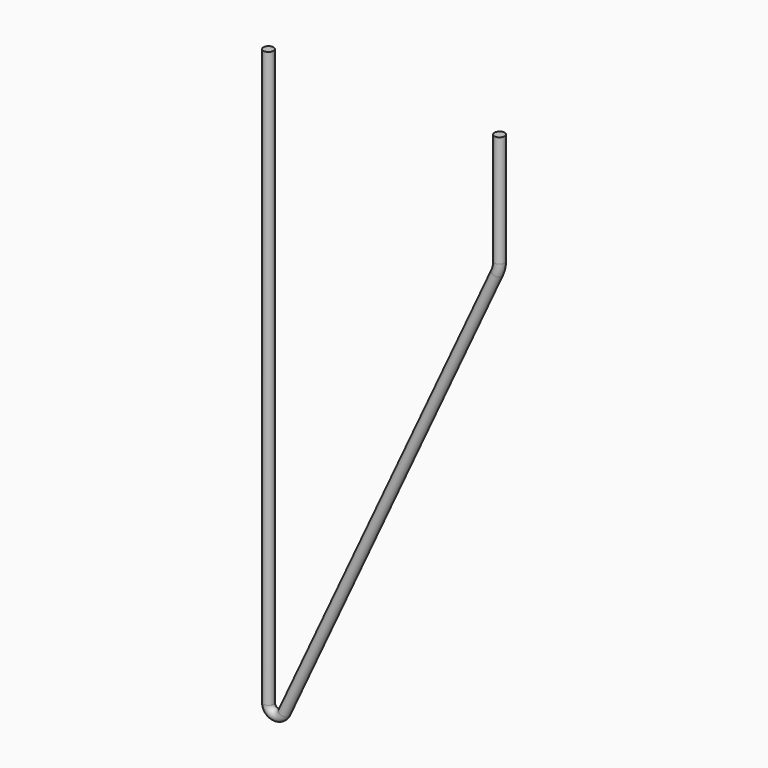
from build123d import *

# Parameters (mm, degrees)
F1_R = 3


with BuildPart() as f2:
    # F2: sweep along a path in F0
    with BuildLine(Plane.XZ) as f2_path:
        Line((-65.219014883, 0), (-65.219014883, -343.4424483332))
        ThreePointArc((-65.219014883, -343.4424483332), (-61.301029622, -348.3239690086), (-55.6873172411, -345.5551992608))
        Line((-55.6873172411, -345.5551992608), (71.3760780427, -73.0134238694))
        ThreePointArc((71.3760780427, -73.0134238694), (72.4255471433, -69.9212153032), (72.780985117, -66.6751710865))
        Line((72.780985117, -66.6751710865), (72.780985117, 0))
    # F1 (on Top) → F2 (sweep)
    with BuildSketch(Plane.XY):
        with Locations((-65.219014883, 0)):
            Circle(F1_R)
    sweep(path=f2_path.line)


solid = f2.part
